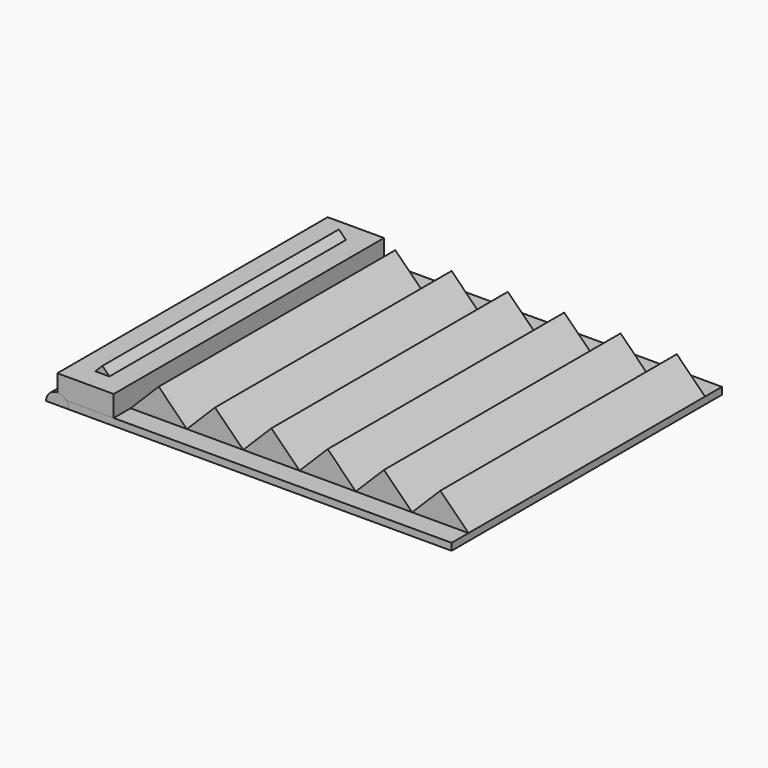
from build123d import *

# Parameters (mm, degrees)
F0_W      = 101.6
F0_H      = 50.8
F1_DEPTH  = 609.6
F2_W      = 711.2
F2_H      = 63.5
F3_DEPTH  = 609.6
F5_DEPTH  = 609.601
F6_W      = 38.1
F6_H      = 63.5
F7_DEPTH  = 711.201
F8_W      = 38.1
F8_H      = 76.2
F9_DEPTH  = 711.201
F10_R     = 6.35
F11_DEPTH = 25.4
F13_DEPTH = 609.6
F15_DEPTH = 12.7


with BuildPart() as f1:
    # F0 (on Front) → F1 (new body)
    with BuildSketch(Plane.XZ):
        with Locations((50.8, 25.4)):
            Rectangle(F0_W, F0_H)
    extrude(amount=F1_DEPTH)


with BuildPart() as f3:
    # F2 (on Front) → F3 (new body)
    with BuildSketch(Plane.XZ):
        with Locations((355.6, 31.75)):
            Rectangle(F2_W, F2_H)
    extrude(amount=F3_DEPTH)

    # F4 (on face) → F5 (cut, through all)
    with BuildSketch(Plane.XZ.offset(609.6)):
        Polygon((0, 63.5), (0, 12.7), (50.8, 63.5), align=None)
        Polygon((152.4, 63.5), (50.8, 63.5), (101.6, 12.7), align=None)
        Polygon((254, 63.5), (152.4, 63.5), (203.2, 12.7), align=None)
        Polygon((355.6, 63.5), (254, 63.5), (304.8, 12.7), align=None)
        Polygon((457.2, 63.5), (355.6, 63.5), (406.4, 12.7), align=None)
        Polygon((508, 12.7), (558.8, 63.5), (457.2, 63.5), align=None)
        Polygon((609.6, 12.7), (660.4, 63.5), (558.8, 63.5), align=None)
        Polygon((660.4, 63.5), (711.2, 12.7), (711.2, 63.5), align=None)
    extrude(amount=-F5_DEPTH, mode=Mode.SUBTRACT)

    # F6 (on Right) → F7 (cut, through all)
    with BuildSketch(Plane.YZ):
        with Locations((-19.05, 44.45)):
            Rectangle(F6_W, F6_H)
    extrude(amount=F7_DEPTH, mode=Mode.SUBTRACT)

    # F8 (on face) → F9 (cut, through all)
    with BuildSketch(Plane(origin=(0, 0, 0), x_dir=(0, -1, 0), z_dir=(-1, 0, 0))):
        with Locations((590.55, 50.8)):
            Rectangle(F8_W, F8_H)
    extrude(amount=-F9_DEPTH, mode=Mode.SUBTRACT)


with BuildPart() as f11:
    # F10 (on Front) → F11 (new body)
    with BuildSketch(Plane.XZ):
        Circle(F10_R)
    extrude(amount=F11_DEPTH)


with BuildPart() as f13:
    # F12 (on Front) → F13 (new body)
    with BuildSketch(Plane.XZ):
        with BuildLine():
            Line((-20.32, 0), (20.32, 0))
            ThreePointArc((20.32, 0), (0, 20.32), (-20.32, 0))
        make_face()
    extrude(amount=F13_DEPTH)


with BuildPart() as f15:
    # F14 (on Front) → F15 (new body)
    with BuildSketch(Plane.XZ):
        with BuildLine():
            Line((33.02, -127), (33.02, 0))
            ThreePointArc((33.02, 0), (23.3486659148, 23.3486659148), (0, 33.02))
            ThreePointArc((0, 33.02), (-23.3486659148, 23.3486659148), (-33.02, 0))
            Line((-33.02, 0), (-33.02, -127))
            ThreePointArc((-33.02, -127), (0, -160.02), (33.02, -127))
        make_face()
        with BuildLine():
            Line((20.32, -140.97), (0, -140.97))
            Line((0, -140.97), (-20.32, -140.97))
            ThreePointArc((-20.32, -140.97), (0, -120.65), (20.32, -140.97))
        make_face(mode=Mode.SUBTRACT)
        with BuildLine():
            ThreePointArc((6.35, 0), (-4.4901280605, -4.4901280605), (0, 6.35))
            ThreePointArc((0, 6.35), (4.4901280605, 4.4901280605), (6.35, 0))
        make_face(mode=Mode.SUBTRACT)
    extrude(amount=F15_DEPTH)


solid = Compound([f1.part, f3.part, f11.part, f13.part, f15.part])
